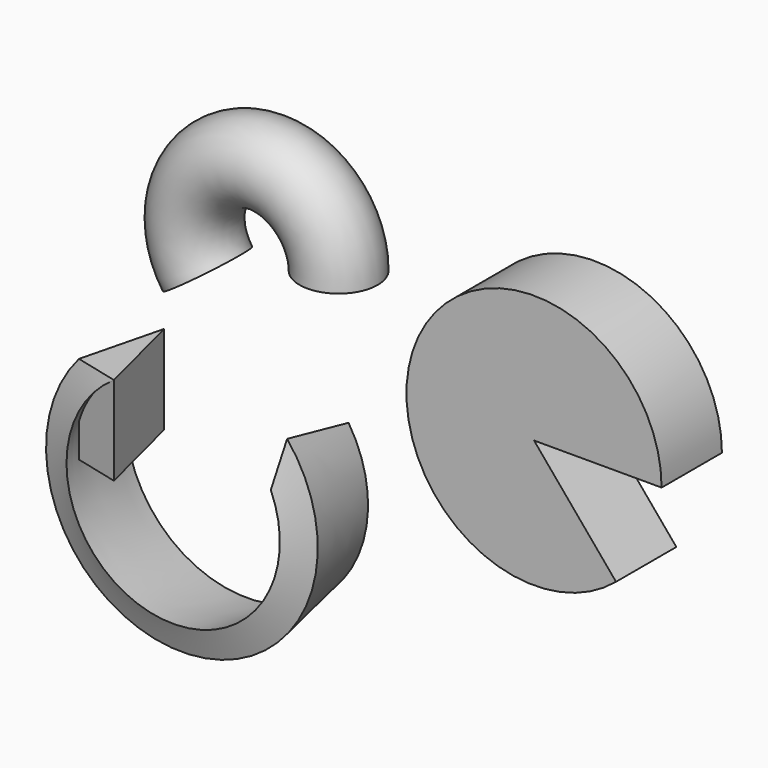
from build123d import *

# Parameters (mm, degrees)
F0_W     = 36.5379918367
F0_H     = 21.5906333178
F1_ANGLE = 310
F0_R     = 11.1797222355
F2_ANGLE = 215
F3_DEPTH = 25.4
F4_ANGLE = 260


with BuildPart() as f1:
    # F0 (on Top) → F1 (revolve)
    with BuildSketch(Plane.XY):
        with Locations((41.5204456076, 26.3654785231)):
            Rectangle(F0_W, F0_H)
    revolve(axis=Axis((23.2514496893, 26.3654785231, 0), (0, -1, 0)), revolution_arc=F1_ANGLE)


with BuildPart() as f2:
    # F0 (on Top) → F2 (revolve)
    with BuildSketch(Plane.XY):
        with Locations((-62.280677259, 52.5233596563)):
            Circle(F0_R)
    revolve(axis=Axis((-82.9103291035, 50.9820729494, 0), (0, -1, 0)), revolution_arc=F2_ANGLE)


with BuildPart() as f3:
    # F0 (on Top) → F3 (new body)
    with BuildSketch(Plane.XY):
        Polygon((-37.9269696142, -58.3638457864), (-44.6190871298, -31.9861508906), (-50.4319518805, -55.2375987172), align=None)
    extrude(amount=F3_DEPTH)

    # F3_face (on face) → F4 (revolve)
    with BuildSketch(Plane(origin=(-44.3260028748, -48.5291984647, 25.4), x_dir=(1, 0, 0), z_dir=(0, 0, 1))):
        Polygon((6.3990332606, -9.8346473217), (-0.293084255, 16.5430475741), (-6.1059490056, -6.7084002525), align=None)
    revolve(axis=Axis((-20.9524314851, -46.1031068116, 0), (0, -1, 0)), revolution_arc=F4_ANGLE)


solid = Compound([f1.part, f2.part, f3.part])
